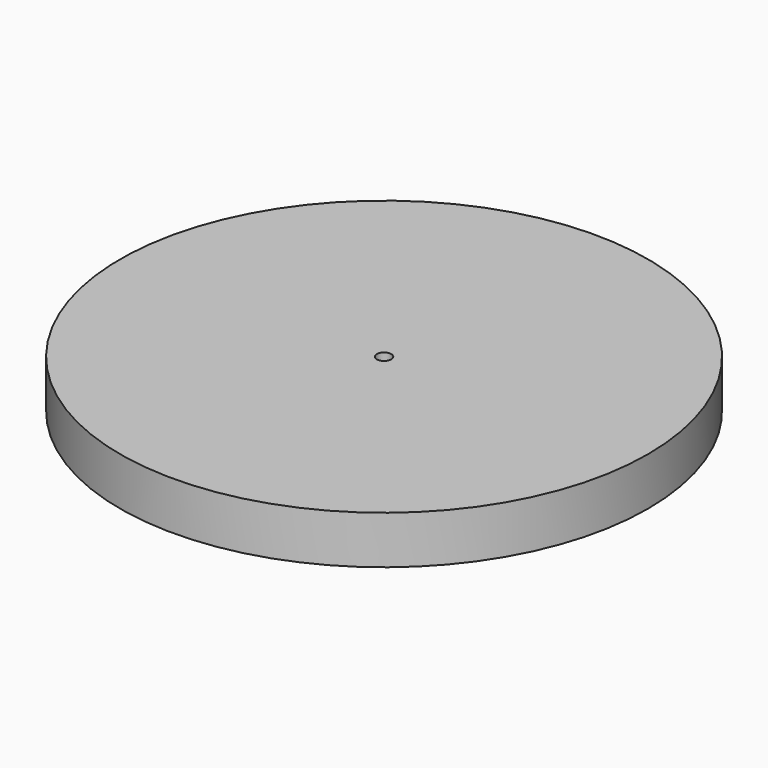
from build123d import *

# Parameters (mm, degrees)
F0_R     = 27.5
F1_DEPTH = 5
F2_R     = 0.75
F3_DEPTH = 4.65
F4_R     = 0.25
F5_DEPTH = 2.35
F6_SIZE  = 0.25
F7_R     = 1
F8_DEPTH = 0.01


with BuildPart() as f1:
    # F0 (on Top) → F1 (new body)
    with BuildSketch(Plane.XY):
        Circle(F0_R)
    extrude(amount=F1_DEPTH)

    # F2 (on face) → F3 (cut)
    with BuildSketch(Plane.XY.offset(5)):
        Circle(F2_R)
    extrude(amount=-F3_DEPTH, mode=Mode.SUBTRACT)

    # F4 (on face) → F5 (join)
    with BuildSketch(Plane.XY.offset(0.35)):
        Circle(F4_R)
    extrude(amount=F5_DEPTH)

    # F6
    f6_edges = [f1.edges().sort_by_distance(p)[0] for p in [
        (-0.75, 0, 0.35),
    ]]
    chamfer(f6_edges, length=F6_SIZE)

    # F7 (on face) → F8 (join)
    with BuildSketch(Plane(origin=(0, 0, 0), x_dir=(1, 0, 0), z_dir=(0, 0, -1))):
        Circle(F7_R)
    extrude(amount=F8_DEPTH)


solid = f1.part
